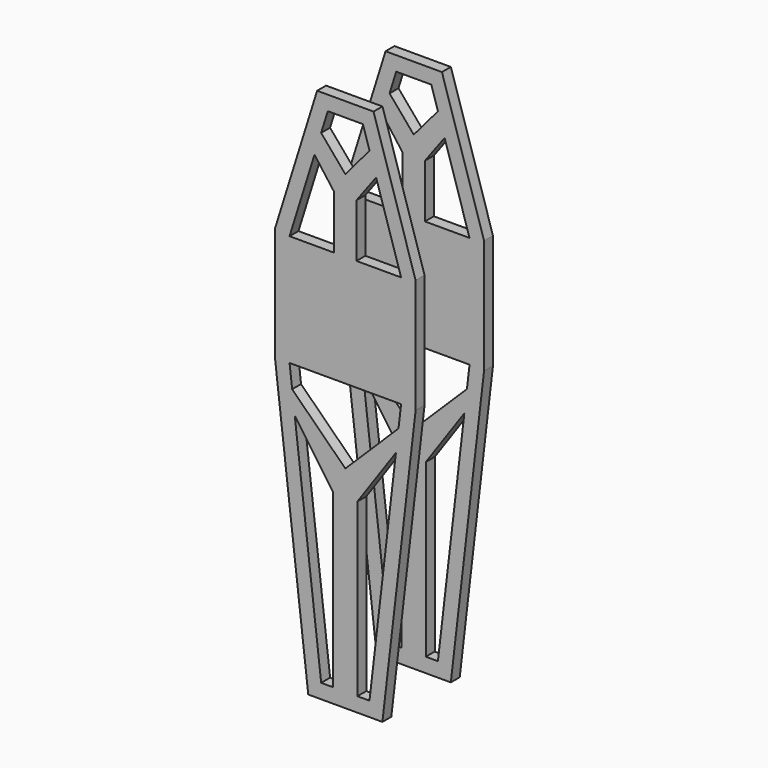
from build123d import *

# Parameters (mm, degrees)
F0_W     = 15.24
F0_H     = 36.5052193037
F2_DEPTH = 7.62


with BuildPart() as f2:
    # F0 (on Front) → F2 (new body)
    with BuildSketch(Plane.XZ):
        Polygon((-19.2675294544, 93.6105943945), (-48.006000328, 1.5096033995), (-48.006000328, -76.7753090553), (-25.319093059, -271.4345891594), (0, -271.4345891594), (25.319093059, -271.4345891594), (48.006000328, -76.7753090553), (48.006000328, 1.5096033995), (19.2675294544, 93.6105943945), (0, 93.6105943945), align=None)
        Polygon((-38.1, -76.2), (-38.1, 0), (-21.0604944566, 54.6081715172), (-16.5209847134, 69.1563827919), (-11.9814749703, 83.7045940665), (0, 83.7045940665), (11.9814749703, 83.7045940665), (16.5209847134, 69.1563827919), (21.0604944566, 54.6081715172), (38.1, 0), (38.1, -76.2), (36.3238274662, -91.44), (34.5595964222, -106.577539061), (16.5005545132, -261.5285888314), (8.2502772566, -261.5285888314), (0, -261.5285888314), (-8.2502772566, -261.5285888314), (-16.5005545132, -261.5285888314), (-34.5595964222, -106.577539061), (-36.3238274662, -91.44), align=None, mode=Mode.SUBTRACT)
        Polygon((-7.62, 0), (-38.1, 0), (-38.1, -76.2), (38.1, -76.2), (38.1, 0), (7.62, 0), align=None)
        Polygon((8.2502772566, -144.4549709558), (-8.2502772566, -144.4549709558), (-8.2502772566, -261.5285888314), (0, -261.5285888314), (8.2502772566, -261.5285888314), align=None)
        Polygon((0, -127.2841985449), (-36.3238274662, -91.44), (-34.5595964222, -106.577539061), (-8.2502772566, -144.4549709558), align=None)
        Polygon((34.5595964222, -106.577539061), (36.3238274662, -91.44), (0, -127.2841985449), (8.2502772566, -144.4549709558), align=None)
        with Locations((0, 18.2526096518)):
            Rectangle(F0_W, F0_H)
        Polygon((0, 49.7034464574), (7.62, 36.5052193037), (21.0604944566, 54.6081715172), (16.5209847134, 69.1563827919), align=None)
        Polygon((-16.5209847134, 69.1563827919), (-21.0604944566, 54.6081715172), (-7.62, 36.5052193037), (0, 49.7034464574), align=None)
        Polygon((8.2502772566, -144.4549709558), (0, -127.2841985449), (-8.2502772566, -144.4549709558), align=None)
        Polygon((0, 49.7034464574), (-7.62, 36.5052193037), (7.62, 36.5052193037), align=None)
    extrude(amount=F2_DEPTH)


with BuildPart() as f3_1:
    # F3: instance of F2
    add(f2.part.mirror(Plane.XZ.offset(-25.4)))


solid = Compound([f2.part, f3_1.part])
